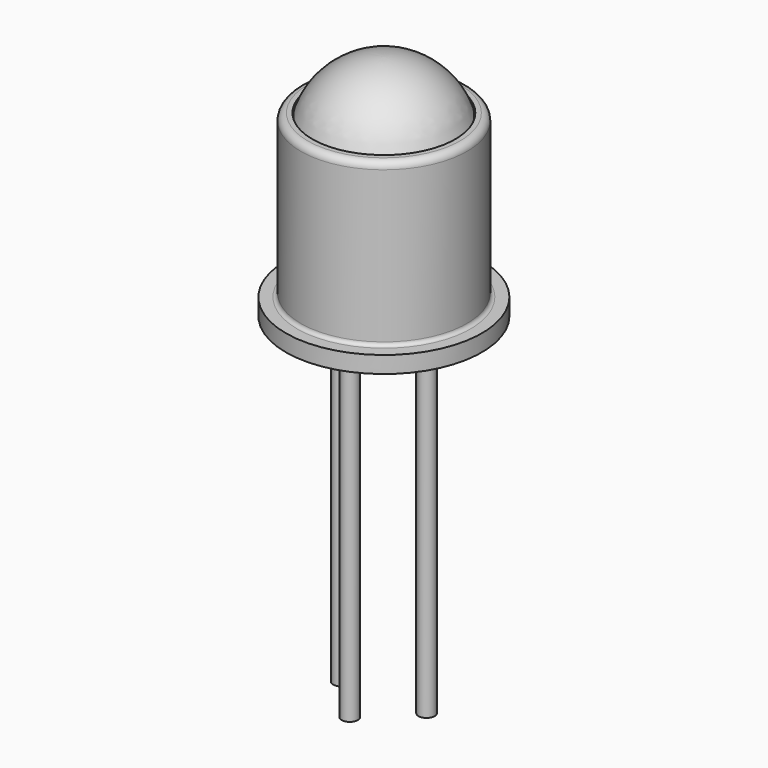
from build123d import *

# Parameters (mm, degrees)
SKETCH_R     = 0.24
PAD_DEPTH    = 10
SKETCH001_R  = 0.24
PAD002_DEPTH = 10
PAD003_DEPTH = 0.5
SKETCH005_R  = 0.24
PAD004_DEPTH = 10


with BuildPart() as pad:
    # Sketch → Pad (new body)
    with BuildSketch(Plane.XY.offset(5)):
        Circle(SKETCH_R)
    extrude(amount=-PAD_DEPTH)


with BuildPart() as pad002:
    # Sketch001 → Pad002 (new body)
    with BuildSketch(Plane.XY.offset(5)):
        with Locations((2.54, 0)):
            Circle(SKETCH001_R)
    extrude(amount=-PAD002_DEPTH)


with BuildPart() as revolution:
    # Sketch003 → Revolution (revolve)
    with BuildSketch(Plane.XZ):
        with BuildLine():
            Line((1.27, 5), (-1.65, 5))
            Line((-1.65, 5), (-1.65, 5.5))
            Line((-1.65, 5.5), (-1.311931, 5.502782))
            ThreePointArc((-1.311931, 5.502782), (-1.236266, 5.534671), (-1.205, 5.610596))
            Line((-1.205, 5.610596), (-1.205, 10.123031))
            ThreePointArc((-0.998031, 10.33), (-1.14438, 10.26938), (-1.205, 10.123031))
            Line((-0.857826, 10.33), (-0.998031, 10.33))
            Line((-0.857826, 10.33), (-0.857826, 5.672898))
            Line((-0.857826, 5.672898), (1.27, 5.672898))
            Line((1.27, 5.672898), (1.27, 5))
        make_face()
    revolve(axis=Axis((1.27, 0, 2.550668), (0, 0, 1)))


with BuildPart() as pad003:
    # Sketch004 → Pad003 (new body)
    with BuildSketch(Plane.XY.offset(5)):
        Polygon((1.57052, 0.30052), (-1.356902, 3.227942), (-1.957942, 2.626902), (0.96948, -0.30052), align=None)
    extrude(amount=PAD003_DEPTH)


with BuildPart() as pad004:
    # Sketch005 → Pad004 (new body)
    with BuildSketch(Plane.XY.offset(5)):
        with Locations((1.27, -1.27)):
            Circle(SKETCH005_R)
    extrude(amount=-PAD004_DEPTH)


with BuildPart() as revolution001:
    # Sketch006 → Revolution001 (revolve)
    with BuildSketch(Plane.XZ):
        with BuildLine():
            ThreePointArc((1.27, 11.8), (-0.020699, 11.386514), (-0.83086, 10.3))
            Line((-0.83086, 9.8), (-0.83086, 10.3))
            Line((1.27, 9.8), (-0.83086, 9.8))
            Line((1.27, 11.8), (1.27, 9.8))
        make_face()
    revolve(axis=Axis((1.27, 0, 10.454185), (0, 0, -1)))


solid = Compound([pad.part, pad002.part, revolution.part, pad003.part, pad004.part, revolution001.part])
